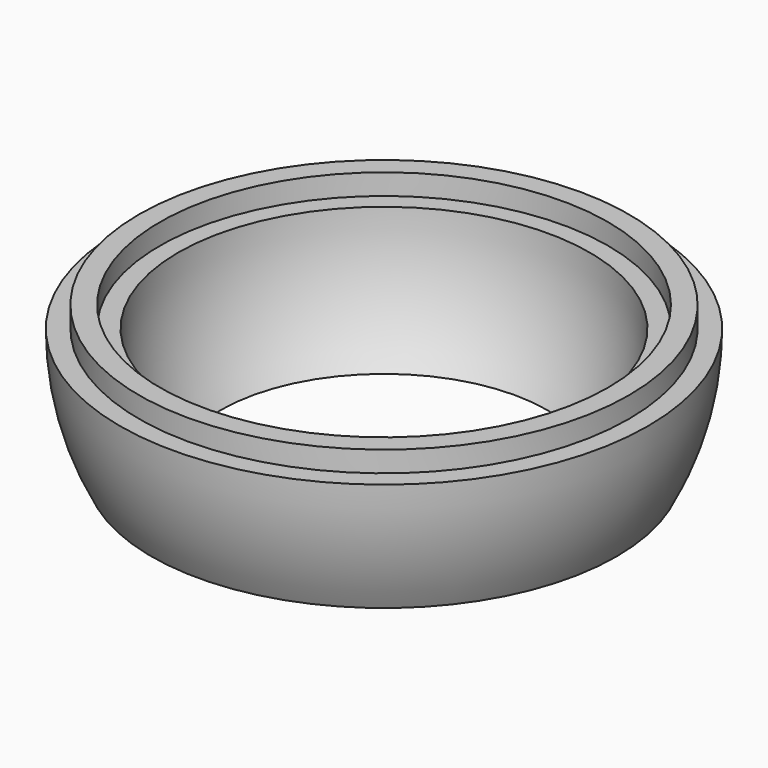
from build123d import *

# Parameters (mm, degrees)
F4_R      = 12.7
F5_DEPTH  = 25.4
F7_R      = 12.7
F8_DEPTH  = 25.4
F9_R      = 7.463803
F9_R_2    = 6.828803
F10_DEPTH = 0.635


with BuildPart() as f1:
    # F0 (on Front) → F1 (revolve)
    with BuildSketch(Plane.XZ):
        with BuildLine():
            ThreePointArc((0, -8.048003), (8.048003, 0), (0, 8.048003))
            Line((0, 8.048003), (0, -8.048003))
        make_face()
    revolve(axis=Axis((0, 0, 0), (0, 0, -1)))

    # F2 (on Front) → F3 (revolve, cut)
    with BuildSketch(Plane.XZ):
        with BuildLine():
            ThreePointArc((0, -6.270003), (6.270003, 0), (0, 6.270003))
            Line((0, 6.270003), (0, -6.270003))
        make_face()
    revolve(axis=Axis((0, 0, 0), (0, 0, -1)), mode=Mode.SUBTRACT)

    # F4 (on Top) → F5 (cut)
    with BuildSketch(Plane.XY):
        Circle(F4_R)
    extrude(amount=F5_DEPTH, mode=Mode.SUBTRACT)

    # F7 (on offset) → F8 (cut)
    with BuildSketch(Plane.XY.offset(-3.81)):
        Circle(F7_R)
    extrude(amount=-F8_DEPTH, mode=Mode.SUBTRACT)

    # F9 (on face) → F10 (join)
    with BuildSketch(Plane.XY):
        Circle(F9_R)
        Circle(F9_R_2, mode=Mode.SUBTRACT)
    extrude(amount=F10_DEPTH)


solid = f1.part
